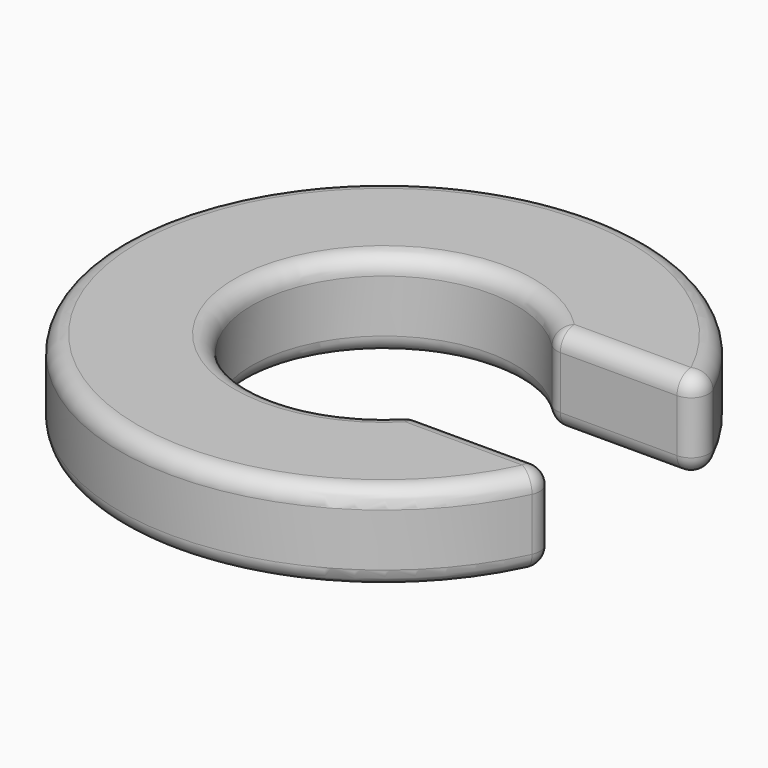
from build123d import *

# Parameters (mm, degrees)
BOX_W             = 3
BOX_H             = 2
BOX_DEPTH         = 10
CYLINDER_R        = 1.5
CYLINDER_DEPTH    = 1
CYLINDER001_R     = 3
CYLINDER001_DEPTH = 1
FILLET_R          = 0.2


with BuildPart() as cube:
    # Box → Box (new body)
    with BuildSketch(Plane(origin=(0, -1, 0), x_dir=(1, 0, 0), z_dir=(0, 0, 1))):
        with Locations((1.5, 1)):
            Rectangle(BOX_W, BOX_H)
    extrude(amount=BOX_DEPTH)


with BuildPart() as cylinder:
    # Cylinder → Cylinder (new body)
    with BuildSketch(Plane.XY):
        Circle(CYLINDER_R)
    extrude(amount=CYLINDER_DEPTH)


with BuildPart() as obj1:
    # Cylinder001 → Cylinder001 (new body)
    with BuildSketch(Plane.XY):
        Circle(CYLINDER001_R)
    extrude(amount=CYLINDER001_DEPTH)

    # Cut: cut Cylinder
    add(cylinder.part, mode=Mode.SUBTRACT)

    # Cut001: cut Cube
    add(cube.part, mode=Mode.SUBTRACT)

    # Fillet
    fillet_edges = [obj1.edges().sort_by_distance(p)[0] for p in [
        (-3, 0, 0),
        (2.828427, -1, 0.5),
        (-3, 0, 1),
        (2.828427, 1, 0.5),
        (1.973231, 1, 0),
        (-1.5, 0, 0),
        (1.973231, -1, 0),
        (1.973231, -1, 1),
        (1.118034, -1, 0.5),
        (1.973231, 1, 1),
        (-1.5, 0, 1),
        (1.118034, 1, 0.5),
    ]]
    fillet(fillet_edges, radius=FILLET_R)


solid = obj1.part
